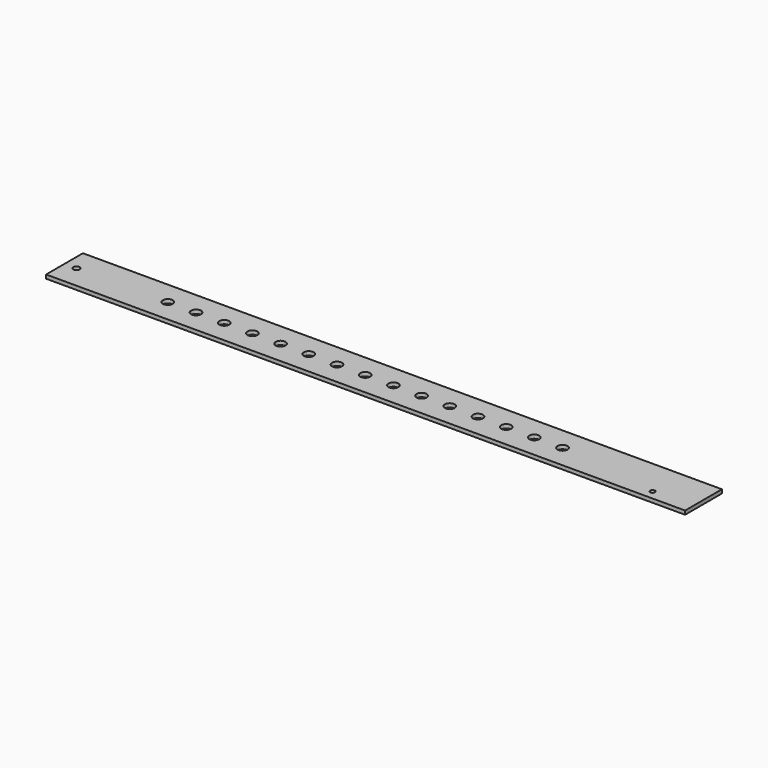
from build123d import *

# Parameters (mm, degrees)
F0_W     = 300
F0_H     = 24.5
F0_R     = 2.65
F1_DEPTH = 2
F2_DEPTH = 10
F3_DEPTH = 30
F4_R     = 1.7
F5_DEPTH = 2
F6_R     = 1.25
F7_DEPTH = 2


with BuildPart() as f1:
    # F0 (on Top) → F1 (new body)
    with BuildSketch(Plane.XY):
        Rectangle(F0_W, F0_H)
        with Locations((-105, 0)):
            Circle(F0_R, mode=Mode.SUBTRACT)
        with Locations((-90, 0)):
            Circle(F0_R, mode=Mode.SUBTRACT)
        with Locations((-75, 0)):
            Circle(F0_R, mode=Mode.SUBTRACT)
        with Locations((-60, 0)):
            Circle(F0_R, mode=Mode.SUBTRACT)
        with Locations((-45, 0)):
            Circle(F0_R, mode=Mode.SUBTRACT)
        with Locations((-30, 0)):
            Circle(F0_R, mode=Mode.SUBTRACT)
        with Locations((-15, 0)):
            Circle(F0_R, mode=Mode.SUBTRACT)
        Circle(F0_R, mode=Mode.SUBTRACT)
        with Locations((15, 0)):
            Circle(F0_R, mode=Mode.SUBTRACT)
        with Locations((30, 0)):
            Circle(F0_R, mode=Mode.SUBTRACT)
        with Locations((45, 0)):
            Circle(F0_R, mode=Mode.SUBTRACT)
        with Locations((60, 0)):
            Circle(F0_R, mode=Mode.SUBTRACT)
        with Locations((75, 0)):
            Circle(F0_R, mode=Mode.SUBTRACT)
        with Locations((90, 0)):
            Circle(F0_R, mode=Mode.SUBTRACT)
        with Locations((105, 0)):
            Circle(F0_R, mode=Mode.SUBTRACT)
    extrude(amount=F1_DEPTH)

    # F2 (add): a face of the model
    f2_faces = [f1.faces().sort_by_distance(p)[0] for p in [
        (-150, 0, 1),
    ]]
    extrude(f2_faces, amount=F2_DEPTH)

    # F3 (add): a face of the model
    f3_faces = [f1.faces().sort_by_distance(p)[0] for p in [
        (150, 0, 1),
    ]]
    extrude(f3_faces, amount=F3_DEPTH)

    # F4 (on face) → F5 (cut, through all)
    with BuildSketch(Plane.XY.offset(2)):
        with Locations((-153.6, 0)):
            Circle(F4_R)
    extrude(amount=-F5_DEPTH, mode=Mode.SUBTRACT)

    # F6 (on face) → F7 (cut, through all)
    with BuildSketch(Plane.XY.offset(2)):
        with Locations((158.75, -7.25)):
            Circle(F6_R)
    extrude(amount=-F7_DEPTH, mode=Mode.SUBTRACT)


solid = f1.part
